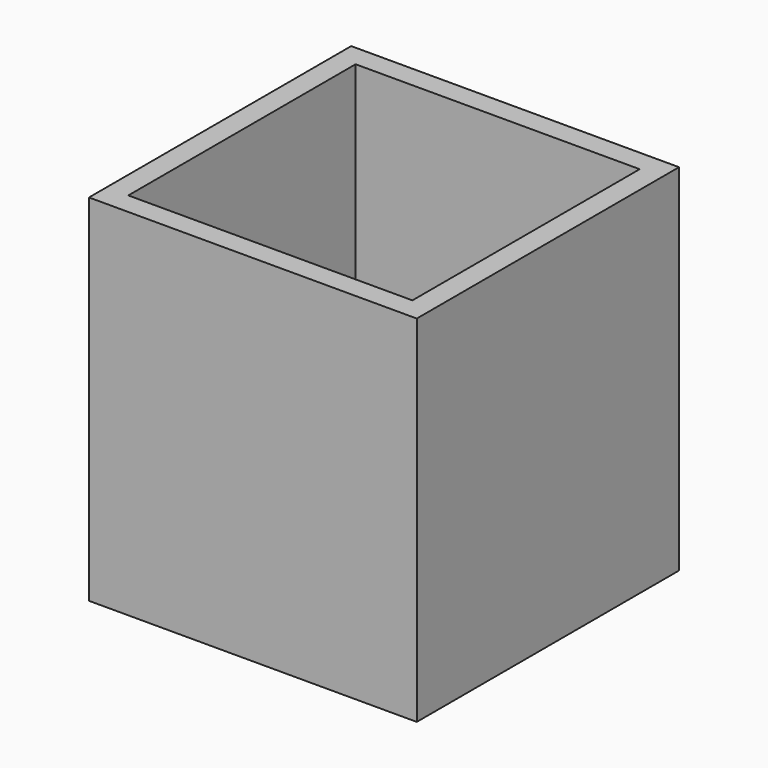
from build123d import *

# Parameters (mm, degrees)
F0_W     = 76.2
F0_H     = 76.2
F0_W_2   = 66.04
F0_H_2   = 66.04
F1_DEPTH = 6.35
F2_DEPTH = 76.2


with BuildPart() as f1:
    # F0 (on Top) → F1 (new body)
    with BuildSketch(Plane.XY):
        Rectangle(F0_W, F0_H)
        Rectangle(F0_W_2, F0_H_2, mode=Mode.SUBTRACT)
        Rectangle(F0_W_2, F0_H_2)
    extrude(amount=-F1_DEPTH)

    # F0 (on Top) → F2 (join)
    with BuildSketch(Plane.XY):
        Rectangle(F0_W, F0_H)
        Rectangle(F0_W_2, F0_H_2, mode=Mode.SUBTRACT)
    extrude(amount=F2_DEPTH)


solid = f1.part
